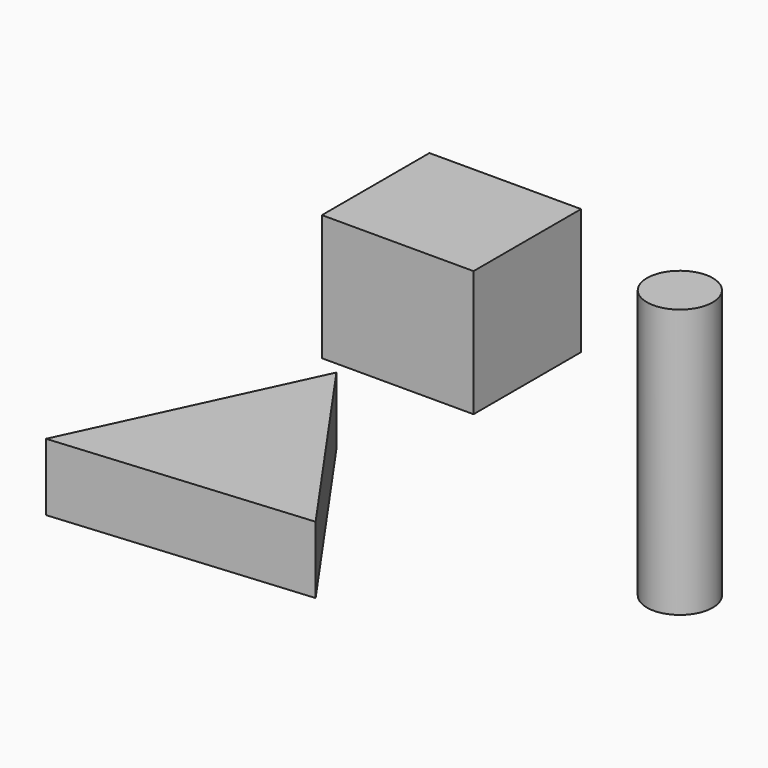
from build123d import *

# Parameters (mm, degrees)
F1_R     = 6.216348
F2_DEPTH = 50.8
F0_W     = 28.654275
F0_H     = 23.811299
F3_DEPTH = 25.4
F5_DEPTH = 12.7


with BuildPart() as f2:
    # F1 (on Top) → F2 (new body)
    with BuildSketch(Plane.XY):
        with Locations((18.458644, -27.858142)):
            Circle(F1_R)
    extrude(amount=F2_DEPTH)


with BuildPart() as f3:
    # F0 (on Front) → F3 (new body)
    with BuildSketch(Plane.XZ):
        with Locations((-36.826797, 27.746217)):
            Rectangle(F0_W, F0_H)
    extrude(amount=F3_DEPTH)


with BuildPart() as f5:
    # F4 (on Top) → F5 (new body)
    with BuildSketch(Plane.XY):
        Polygon((-23.004015, -62.0765), (-50.402704, -22.907847), (-70.624407, -66.220134), align=None)
    extrude(amount=F5_DEPTH)


solid = Compound([f2.part, f3.part, f5.part])
